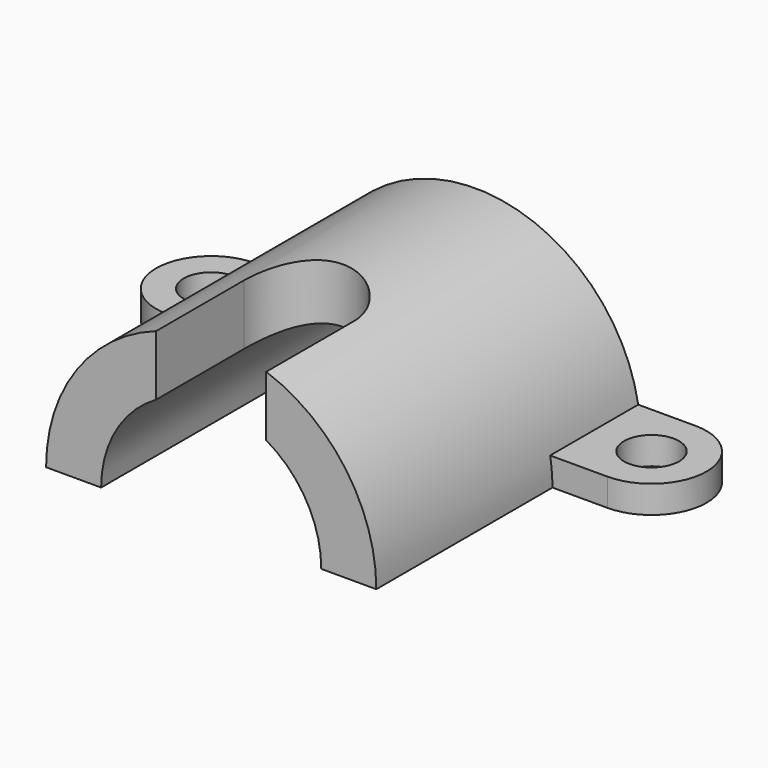
from build123d import *

# Parameters (mm, degrees)
F2_DEPTH  = 60
F4_DEPTH  = 5
F6_DEPTH  = 60.001
F9_DEPTH  = 30.001
F10_R     = 5
F11_DEPTH = 5


with BuildPart() as f2:
    # F1 (on Front) → F2 (new body)
    with BuildSketch(Plane.XZ):
        with BuildLine():
            ThreePointArc((30, 0), (0, 30), (-30, 0))
            Line((-30, 0), (30, 0))
        make_face()
    extrude(amount=F2_DEPTH)

    # F3 (on Top) → F4 (join)
    with BuildSketch(Plane.XY):
        with BuildLine():
            Line((40, 0), (-40, 0))
            ThreePointArc((-40, 0), (-50, -10), (-40, -20))
            Line((-40, -20), (40, -20))
            ThreePointArc((40, -20), (50, -10), (40, 0))
        make_face()
    extrude(amount=F4_DEPTH)

    # F5 (on Front) → F6 (cut, through all)
    with BuildSketch(Plane.XZ):
        with BuildLine():
            ThreePointArc((20, 0), (0, 20), (-20, 0))
            Line((-20, 0), (20, 0))
        make_face()
    extrude(amount=F6_DEPTH, mode=Mode.SUBTRACT)

    # F8 (on offset) → F9 (cut, through all)
    with BuildSketch(Plane.XY.offset(30)):
        with BuildLine():
            Line((-10, -60), (0, -60))
            Line((0, -60), (10, -60))
            Line((10, -60), (10, -40))
            ThreePointArc((10, -40), (0, -30), (-10, -40))
            Line((-10, -40), (-10, -60))
        make_face()
    extrude(amount=-F9_DEPTH, mode=Mode.SUBTRACT)

    # F10 (on Top) → F11 (cut, through all)
    with BuildSketch(Plane.XY):
        with Locations((-40, -10)):
            Circle(F10_R)
        with Locations((40, -10)):
            Circle(F10_R)
    extrude(amount=F11_DEPTH, mode=Mode.SUBTRACT)


solid = f2.part
